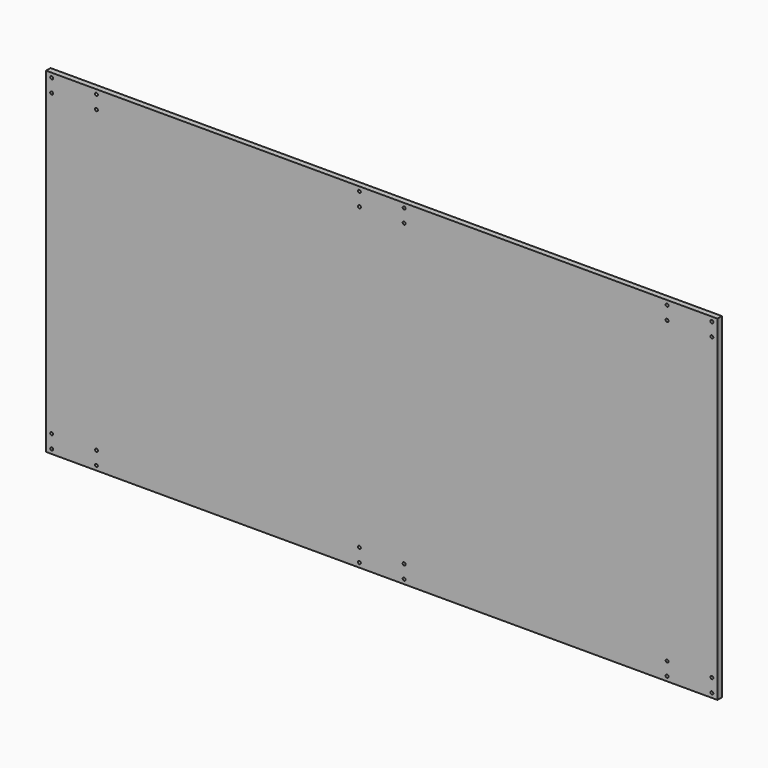
from build123d import *

# Parameters (mm, degrees)
F0_W     = 600
F0_H     = 300
F0_R     = 1.3
F1_DEPTH = 5


with BuildPart() as f1:
    # F0 (on Front) → F1 (new body)
    with BuildSketch(Plane.XZ):
        Rectangle(F0_W, F0_H)
        with Locations((-295, -146)):
            Circle(F0_R, mode=Mode.SUBTRACT)
        with Locations((-295, -134)):
            Circle(F0_R, mode=Mode.SUBTRACT)
        with Locations((-255, -146)):
            Circle(F0_R, mode=Mode.SUBTRACT)
        with Locations((-255, -134)):
            Circle(F0_R, mode=Mode.SUBTRACT)
        with Locations((-20, -146)):
            Circle(F0_R, mode=Mode.SUBTRACT)
        with Locations((-20, -134)):
            Circle(F0_R, mode=Mode.SUBTRACT)
        with Locations((20, -146)):
            Circle(F0_R, mode=Mode.SUBTRACT)
        with Locations((20, -134)):
            Circle(F0_R, mode=Mode.SUBTRACT)
        with Locations((255, -146)):
            Circle(F0_R, mode=Mode.SUBTRACT)
        with Locations((255, -134)):
            Circle(F0_R, mode=Mode.SUBTRACT)
        with Locations((295, -146)):
            Circle(F0_R, mode=Mode.SUBTRACT)
        with Locations((295, -134)):
            Circle(F0_R, mode=Mode.SUBTRACT)
        with Locations((-295, 134)):
            Circle(F0_R, mode=Mode.SUBTRACT)
        with Locations((-295, 146)):
            Circle(F0_R, mode=Mode.SUBTRACT)
        with Locations((-255, 134)):
            Circle(F0_R, mode=Mode.SUBTRACT)
        with Locations((-255, 146)):
            Circle(F0_R, mode=Mode.SUBTRACT)
        with Locations((-20, 134)):
            Circle(F0_R, mode=Mode.SUBTRACT)
        with Locations((-20, 146)):
            Circle(F0_R, mode=Mode.SUBTRACT)
        with Locations((20, 134)):
            Circle(F0_R, mode=Mode.SUBTRACT)
        with Locations((20, 146)):
            Circle(F0_R, mode=Mode.SUBTRACT)
        with Locations((255, 134)):
            Circle(F0_R, mode=Mode.SUBTRACT)
        with Locations((255, 146)):
            Circle(F0_R, mode=Mode.SUBTRACT)
        with Locations((295, 134)):
            Circle(F0_R, mode=Mode.SUBTRACT)
        with Locations((295, 146)):
            Circle(F0_R, mode=Mode.SUBTRACT)
    extrude(amount=F1_DEPTH)


solid = f1.part
